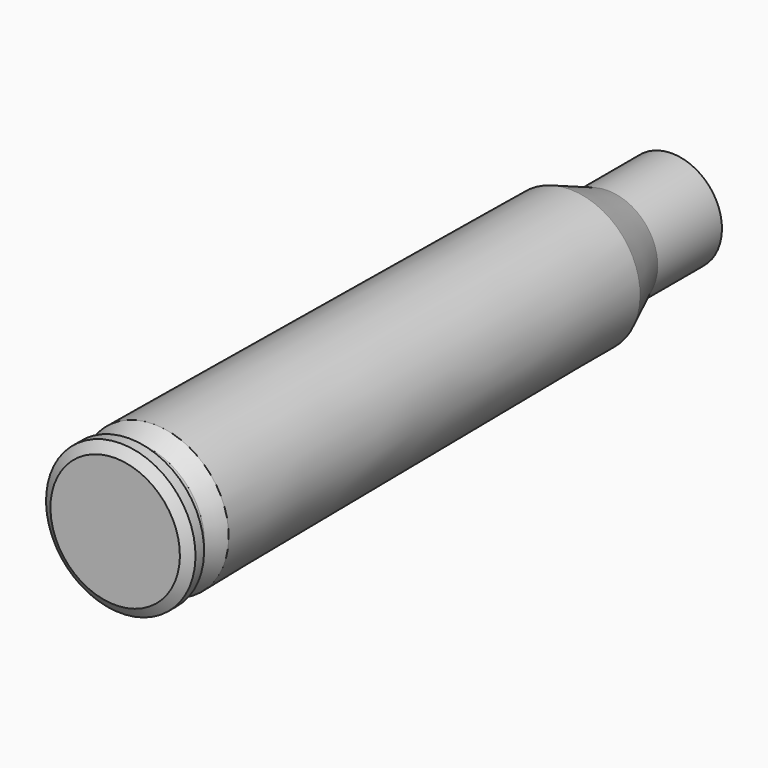
from build123d import *

# Parameters (mm, degrees)
F2_T = -0.73


with BuildPart() as f1:
    # F0 (on Right) → F1 (revolve)
    with BuildSketch(Plane.YZ):
        Polygon((82.1937248002, 20.5987058207), (82.1937248002, 21.1822642403), (81.5037248002, 21.1822642403), (81.0537248002, 20.5395976372), (81.0537248002, 16.3822642403), (125.7537248002, 16.3822642403), (125.7537248002, 19.5972642403), (120.6037248002, 19.5961055472), (117.5737248002, 20.8822642403), (84.1837248002, 21.1722642403), (82.9537248002, 20.5987058207), align=None)
    revolve(axis=Axis((0, 103.4037248002, 16.3822642403), (0, 1, 0)))

    # F2
    f2_openings = [f1.faces().sort_by_distance(p)[0] for p in [
        (0, 125.753725, 16.382264),
    ]]
    offset(amount=F2_T, openings=f2_openings, kind=Kind.INTERSECTION)


solid = f1.part
